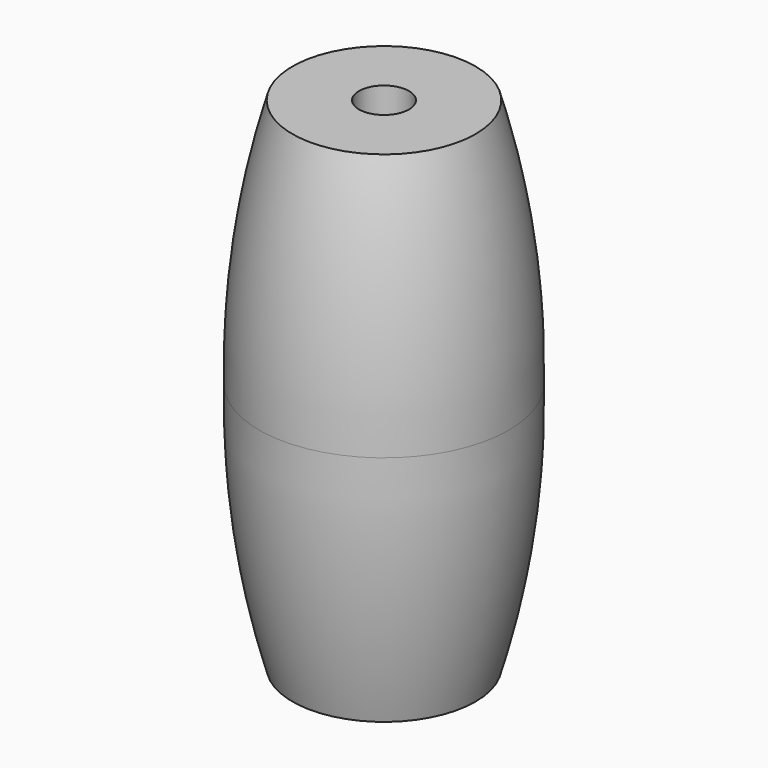
from build123d import *


with BuildPart() as f1:
    # F0 (on Front) → F1 (revolve)
    with BuildSketch(Plane.XZ):
        with BuildLine():
            Line((1.5, 15), (1.5, 0))
            Line((1.5, 0), (7.5, 0))
            ThreePointArc((7.5, 0), (7.070765, 7.576102), (5.5, 15))
            Line((5.5, 15), (1.5, 15))
        make_face()
        with BuildLine():
            Line((7.5, 0), (1.5, 0))
            Line((1.5, 0), (1.5, -15))
            Line((1.5, -15), (5.5, -15))
            ThreePointArc((5.5, -15), (7.070765, -7.576102), (7.5, 0))
        make_face()
    revolve(axis=Axis((0, 0, 7.5), (0, 0, 1)))


solid = f1.part
